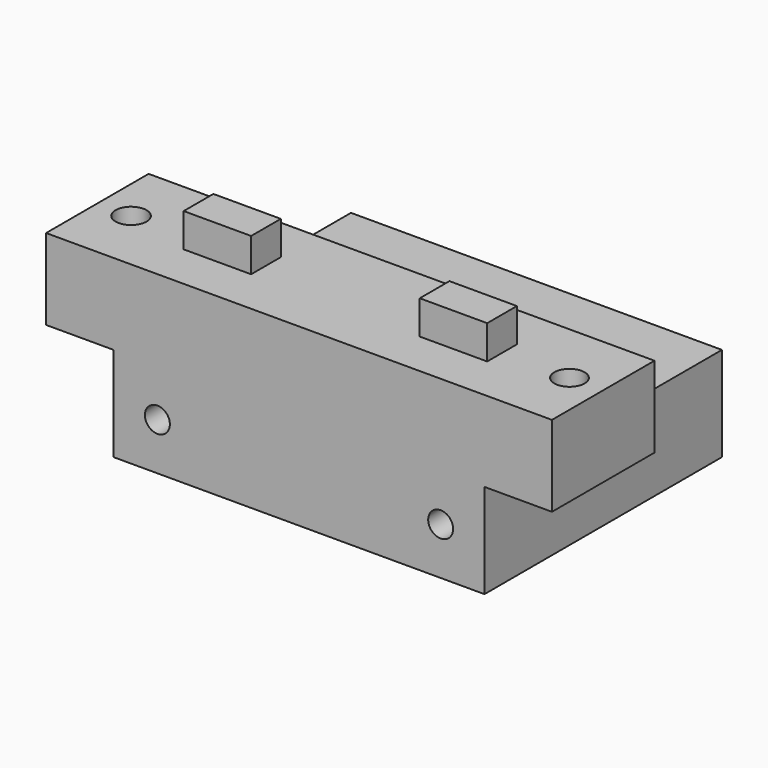
from build123d import *

# Parameters (mm, degrees)
F0_W      = 55
F0_H      = 19
F1_DEPTH  = 26
F2_W      = 55
F2_H      = 14
F3_DEPTH  = 25
F4_W      = 19
F4_H      = 12
F5_DEPTH  = 10
F6_W      = 19
F6_H      = 12
F7_DEPTH  = 10
F8_R      = 1.85
F9_DEPTH  = 44
F10_DEPTH = 44
F11_R     = 2.25
F11_R_2   = 2.2993583235
F12_DEPTH = 12
F13_W     = 10
F13_H     = 5.5
F14_DEPTH = 5


with BuildPart() as f1:
    # F0 (on Top) → F1 (new body)
    with BuildSketch(Plane.XY):
        Rectangle(F0_W, F0_H)
    extrude(amount=F1_DEPTH)

    # F2 (on face) → F3 (join)
    with BuildSketch(Plane(origin=(0, 9.5, 0), x_dir=(-1, 0, 0), z_dir=(0, 1, 0))):
        with Locations((0, 7)):
            Rectangle(F2_W, F2_H)
    extrude(amount=F3_DEPTH)

    # F4 (on face) + F3_face1 (on face) → F5 (join)
    with BuildSketch(Plane(origin=(-27.5, 0, 0), x_dir=(0, -1, 0), z_dir=(-1, 0, 0))):
        with Locations((0, 20)):
            Rectangle(F4_W, F4_H)
    with BuildSketch(Plane(origin=(27.5, 9.1232227488, 10.5118483412), x_dir=(0, 1, 0), z_dir=(1, 0, 0))):
        Polygon((-18.6232227488, 15.4881516588), (-18.6232227488, -10.5118483412), (25.3767772512, -10.5118483412), (25.3767772512, 3.4881516588), (0.3767772512, 3.4881516588), (0.3767772512, 15.4881516588), align=None)
    extrude(amount=F5_DEPTH, dir=(-1, 0, 0))

    # F6 (on face) → F7 (join)
    with BuildSketch(Plane.YZ.offset(27.5)):
        with Locations((0, 20)):
            Rectangle(F6_W, F6_H)
    extrude(amount=F7_DEPTH)

    # F8 (on face) → F9 (cut)
    with BuildSketch(Plane(origin=(0, 34.5, 0), x_dir=(-1, 0, 0), z_dir=(0, 1, 0))):
        with Locations((-21, 7)):
            Circle(F8_R)
        with Locations((21, 7)):
            Circle(F8_R)
    extrude(amount=-F9_DEPTH, mode=Mode.SUBTRACT)

    # F8 (on face) → F10 (cut)
    with BuildSketch(Plane(origin=(0, 34.5, 0), x_dir=(-1, 0, 0), z_dir=(0, 1, 0))):
        with Locations((-21, 7)):
            Circle(F8_R)
        with Locations((21, 7)):
            Circle(F8_R)
    extrude(amount=-F10_DEPTH, mode=Mode.SUBTRACT)

    # F11 (on face) → F12 (cut)
    with BuildSketch(Plane.XY.offset(26)):
        with Locations((32.5, 0)):
            Circle(F11_R)
        with Locations((-32.5, 0)):
            Circle(F11_R_2)
    extrude(amount=-F12_DEPTH, mode=Mode.SUBTRACT)

    # F13 (on face) → F14 (join)
    with BuildSketch(Plane.XY.offset(26)):
        with Locations((17.5, 0)):
            Rectangle(F13_W, F13_H)
        with Locations((-17.5, 0)):
            Rectangle(F13_W, F13_H)
    extrude(amount=F14_DEPTH)


solid = f1.part
